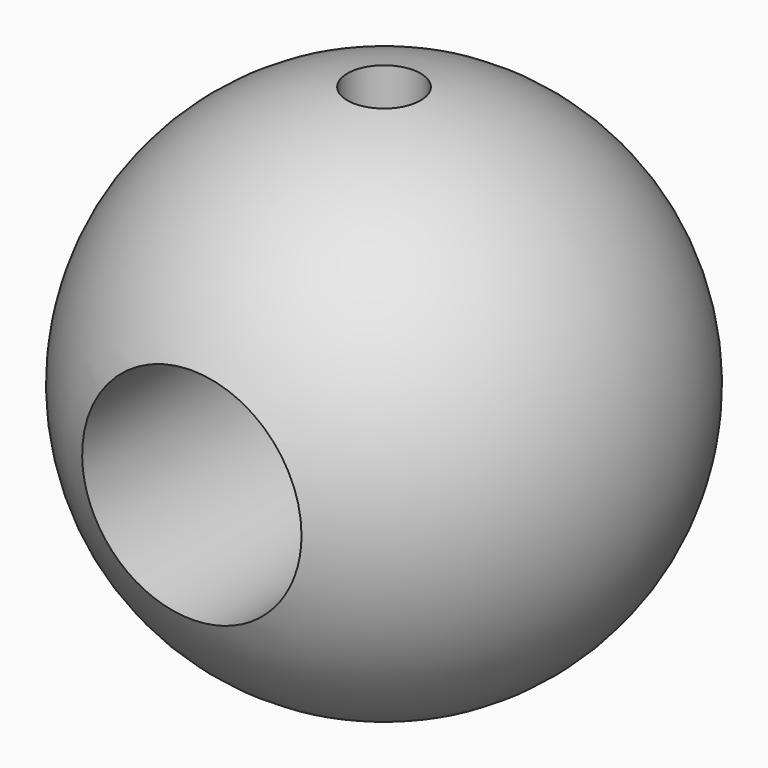
from build123d import *

# Parameters (mm, degrees)
F3_R     = 3.95605
F4_DEPTH = 12.7
F6_R     = 1.3208
F7_DEPTH = 19.051


with BuildPart() as f1:
    # F0 (on Front) → F1 (revolve)
    with BuildSketch(Plane.XZ):
        with BuildLine():
            Line((0, 9.525), (0, -9.525))
            ThreePointArc((0, -9.525), (9.525, 0), (0, 9.525))
        make_face()
    revolve(axis=Axis((0, 0, 0), (0, 0, -1)))

    # F3 (on offset) → F4 (cut)
    with BuildSketch(Plane.XZ.offset(9.525)):
        Circle(F3_R)
    extrude(amount=-F4_DEPTH, mode=Mode.SUBTRACT)

    # F6 (on offset) → F7 (cut, through all)
    with BuildSketch(Plane.XY.offset(9.525)):
        Circle(F6_R)
    extrude(amount=-F7_DEPTH, mode=Mode.SUBTRACT)


solid = f1.part
